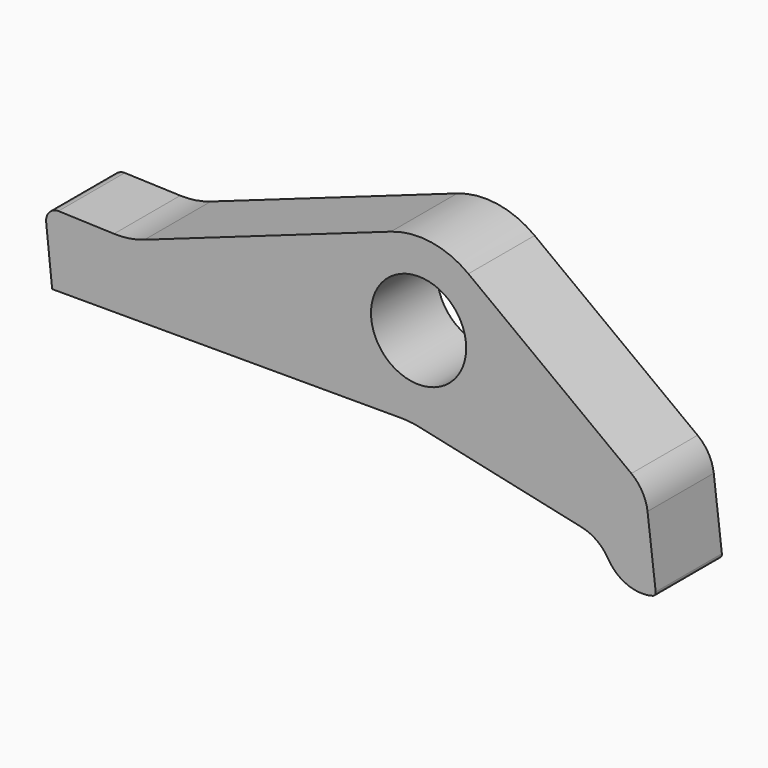
from build123d import *

# Parameters (mm, degrees)
F0_R     = 11.5
F1_DEPTH = 20


with BuildPart() as f1:
    # F0 (on Front) → F1 (new body)
    with BuildSketch(Plane.XZ):
        with BuildLine():
            ThreePointArc((12.0363, 15.97271), (3.042468, 19.76723), (-6.676137, 18.85283))
            Line((-6.676137, 18.85283), (-66.2225, -2.233643))
            ThreePointArc((-66.2225, -2.233643), (-69.85617, -3.148044), (-73.596627, -3.36863))
            Line((-73.596627, -3.36863), (-87.016434, -2.9))
            ThreePointArc((-87.016434, -2.9), (-89.245869, -3.892608), (-90, -6.213585))
            Line((-90, -6.213585), (-88.550989, -20))
            Line((-88.550989, -20), (-4.2, -20))
            ThreePointArc((-4.2, -20), (-2.057365, -20.115103), (0.060608, -20.459089))
            Line((0.060608, -20.459089), (39.351254, -29.025835))
            ThreePointArc((39.351254, -29.025835), (43.011955, -30.642935), (45.746406, -33.56501))
            ThreePointArc((45.746406, -33.56501), (50.366632, -37.660248), (56.526688, -38.073967))
            ThreePointArc((56.526688, -38.073967), (57.118662, -37.674275), (57.292966, -36.981596))
            Line((57.292966, -36.981596), (55.328237, -20.504889))
            ThreePointArc((55.328237, -20.504889), (54.06755, -16.704051), (51.416732, -13.702574))
            Line((51.416732, -13.702574), (12.0363, 15.97271))
        make_face()
        Circle(F0_R, mode=Mode.SUBTRACT)
    extrude(amount=F1_DEPTH)


solid = f1.part
